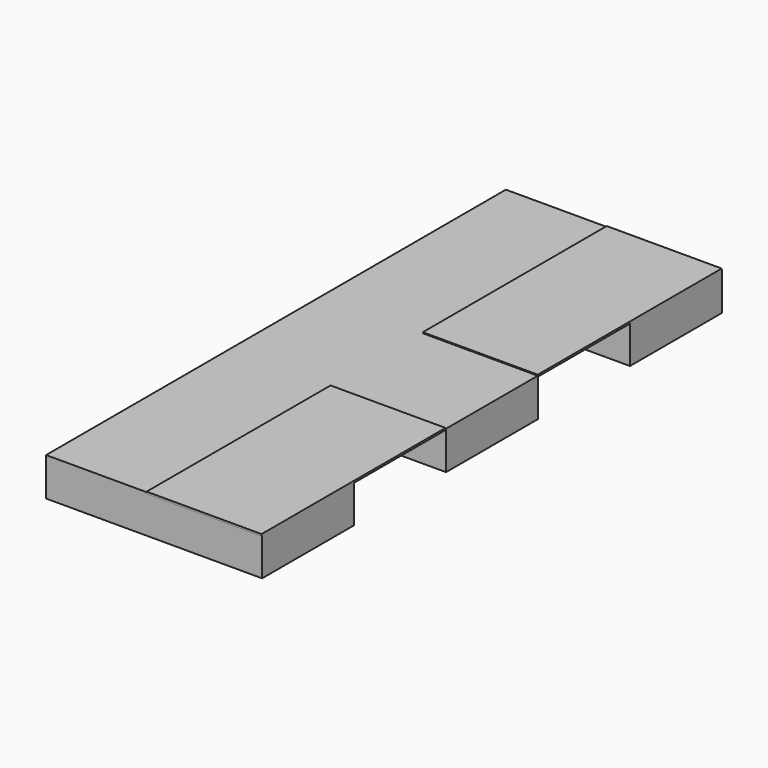
from build123d import *

# Parameters (mm, degrees)
F1_DEPTH = 5.08
F2_W     = 15.24
F2_H     = 30.480002
F2_H_2   = 30.48
F3_DEPTH = 0.127


with BuildPart() as f1:
    # F0 (on Top) → F1 (new body)
    with BuildSketch(Plane.XY):
        Polygon((0, 45.811806), (-28.644443, 45.811806), (-28.644443, -30.388194), (0, -30.388194), (0, -15.148194), (-15.24, -15.148194), (-15.24, 0.091806), (0, 0.091806), (0, 15.331806), (-15.24, 15.331806), (-15.24, 30.571806), (0, 30.571806), align=None)
    extrude(amount=-F1_DEPTH)

    # F2 (on Top) → F3 (join, symmetric)
    with BuildSketch(Plane.XY):
        with Locations((-7.62, 30.530782)):
            Rectangle(F2_W, F2_H)
        with Locations((-7.62, -15.24)):
            Rectangle(F2_W, F2_H_2)
    extrude(amount=F3_DEPTH, both=True)


solid = f1.part
